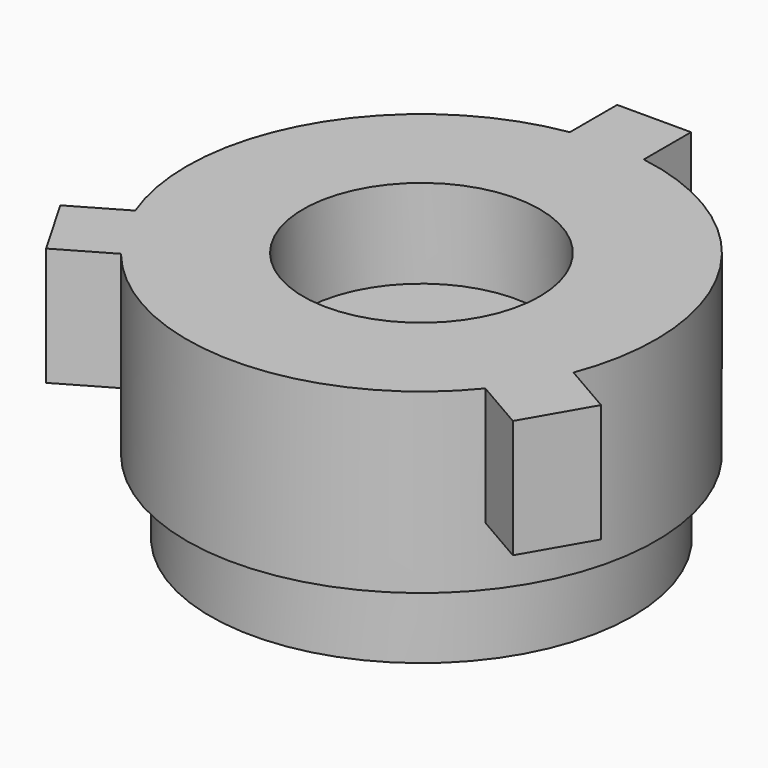
from build123d import *

# Parameters (mm, degrees)
F3_D           = 5
F3_CBORE_D     = 16
F3_CBORE_DEPTH = 6
F4_W           = 5
F4_H           = 4
F5_DEPTH       = 8
F6_COUNT       = 3


with BuildPart() as f1:
    # F0 (on Front) → F1 (revolve)
    with BuildSketch(Plane.XZ):
        Polygon((0, -17), (0, 0), (-15.875, 0), (-15.875, -12), (-14.2875, -12), (-14.2875, -17), align=None)
    revolve(axis=Axis((0, 0, -23.116006), (0, 0, -1)))

    # F3 (through all)
    with Locations(Plane.XY):
        with Locations((0, 0)):
            CounterBoreHole(F3_D / 2, F3_CBORE_D / 2, F3_CBORE_DEPTH)

    # F4 (on face) → F5 (join)
    with BuildSketch(Plane.XY):
        with Locations((0, 17.676914)):
            Rectangle(F4_W, F4_H)
    extrude(amount=-F5_DEPTH)

    # F6: F1 ×3 about axis
    f6_axis = Axis((0, 0, -12), (0, 0, -1))


with BuildPart() as f1_1:
    add(f1.part)
    for i in range(1, F6_COUNT):
        add(f1.part.rotate(f6_axis, i * 360 / F6_COUNT))


solid = f1_1.part
